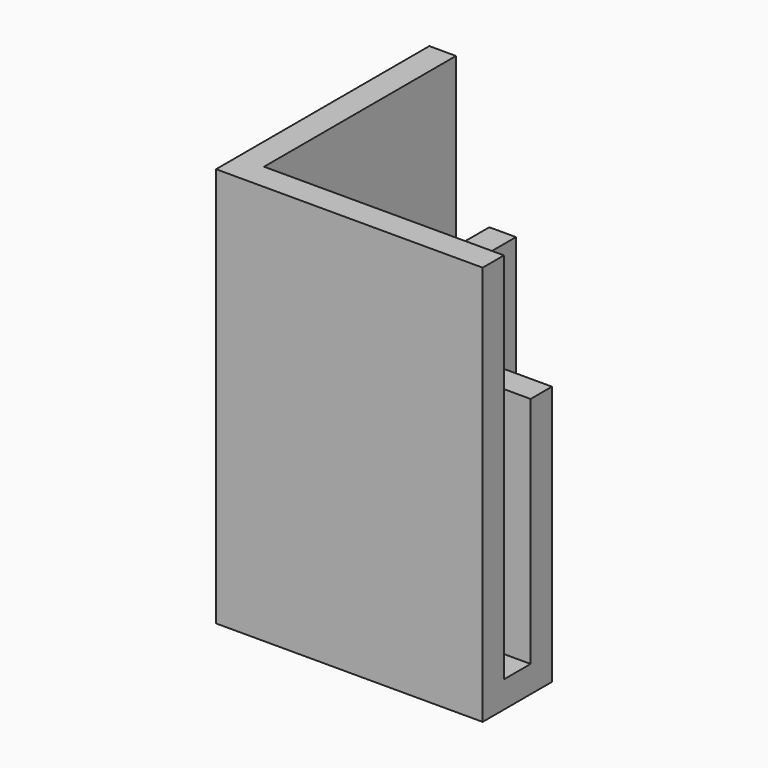
from build123d import *

# Parameters (mm, degrees)
F0_W     = 2.54
F0_H     = 17.145
F0_W_2   = 3.175
F0_H_2   = 2.54
F0_H_3   = 3.175
F0_W_3   = 17.145
F1_DEPTH = 2.54
F2_DEPTH = 24.765
F3_DEPTH = 38.1


with BuildPart() as f1:
    # F0 (on Top) → F1 (new body)
    with BuildSketch(Plane.XY):
        with Locations((1.27, 16.8275)):
            Rectangle(F0_W, F0_H)
        with Locations((1.27, 16.8275)):
            Rectangle(F0_W, F0_H)
        with Locations((4.1275, 16.8275)):
            Rectangle(F0_W_2, F0_H)
        with Locations((6.985, 16.8275)):
            Rectangle(F0_W, F0_H)
        with Locations((1.27, 6.985)):
            Rectangle(F0_W, F0_H_2)
        with Locations((1.27, 4.1275)):
            Rectangle(F0_W, F0_H_3)
        with Locations((1.27, 1.27)):
            Rectangle(F0_W, F0_H_2)
        with Locations((4.1275, 1.27)):
            Rectangle(F0_W_2, F0_H_2)
        with Locations((4.1275, 4.1275)):
            Rectangle(F0_W_2, F0_H_3)
        with Locations((4.1275, 6.985)):
            Rectangle(F0_W_2, F0_H_2)
        with Locations((6.985, 4.1275)):
            Rectangle(F0_W, F0_H_3)
        with Locations((6.985, 6.985)):
            Rectangle(F0_W, F0_H_2)
        with Locations((6.985, 1.27)):
            Rectangle(F0_W, F0_H_2)
        with Locations((16.8275, 1.27)):
            Rectangle(F0_W_3, F0_H_2)
        with Locations((16.8275, 1.27)):
            Rectangle(F0_W_3, F0_H_2)
        with Locations((16.8275, 4.1275)):
            Rectangle(F0_W_3, F0_H_3)
        with Locations((16.8275, 6.985)):
            Rectangle(F0_W_3, F0_H_2)
    extrude(amount=F1_DEPTH)

    # F0 (on Top) → F2 (join)
    with BuildSketch(Plane.XY):
        with Locations((6.985, 16.8275)):
            Rectangle(F0_W, F0_H)
        with Locations((6.985, 6.985)):
            Rectangle(F0_W, F0_H_2)
        with Locations((16.8275, 6.985)):
            Rectangle(F0_W_3, F0_H_2)
    extrude(amount=F2_DEPTH)

    # F0 (on Top) → F3 (join)
    with BuildSketch(Plane.XY):
        with Locations((1.27, 16.8275)):
            Rectangle(F0_W, F0_H)
        with Locations((1.27, 6.985)):
            Rectangle(F0_W, F0_H_2)
        with Locations((1.27, 4.1275)):
            Rectangle(F0_W, F0_H_3)
        with Locations((1.27, 1.27)):
            Rectangle(F0_W, F0_H_2)
        with Locations((4.1275, 1.27)):
            Rectangle(F0_W_2, F0_H_2)
        with Locations((6.985, 1.27)):
            Rectangle(F0_W, F0_H_2)
        with Locations((16.8275, 1.27)):
            Rectangle(F0_W_3, F0_H_2)
    extrude(amount=F3_DEPTH)


solid = f1.part
